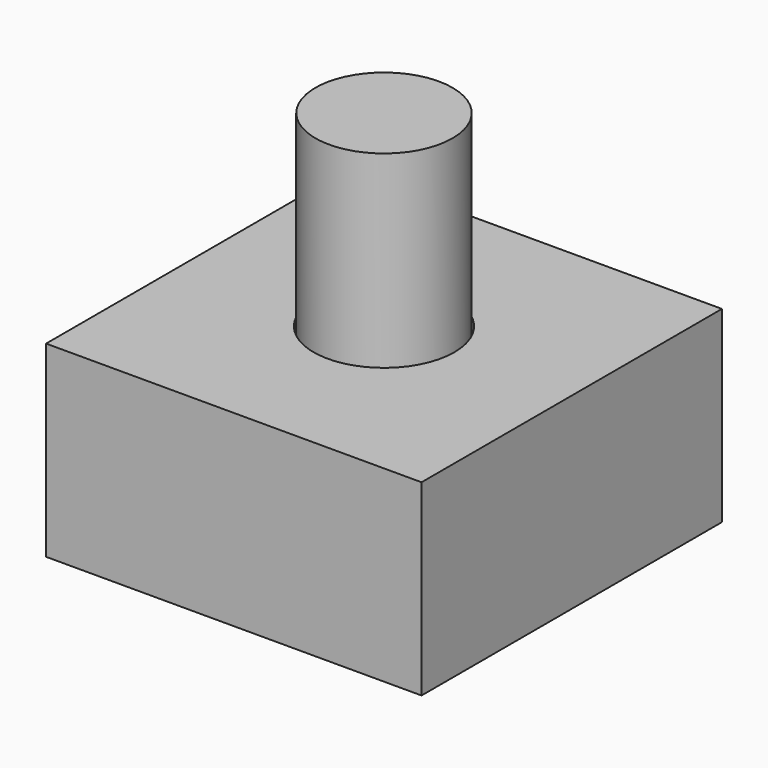
from build123d import *

# Parameters (mm, degrees)
F0_W     = 101.6
F0_H     = 101.6
F0_R     = 19.05
F1_DEPTH = 50.8
F2_R     = 18.542
F3_DEPTH = 101.6


with BuildPart() as f1:
    # F0 (on Top) → F1 (new body)
    with BuildSketch(Plane.XY):
        Rectangle(F0_W, F0_H)
        Circle(F0_R, mode=Mode.SUBTRACT)
    extrude(amount=F1_DEPTH)


with BuildPart() as f3:
    # F2 (on Top) → F3 (new body)
    with BuildSketch(Plane.XY):
        Circle(F2_R)
    extrude(amount=F3_DEPTH)


solid = Compound([f1.part, f3.part])
